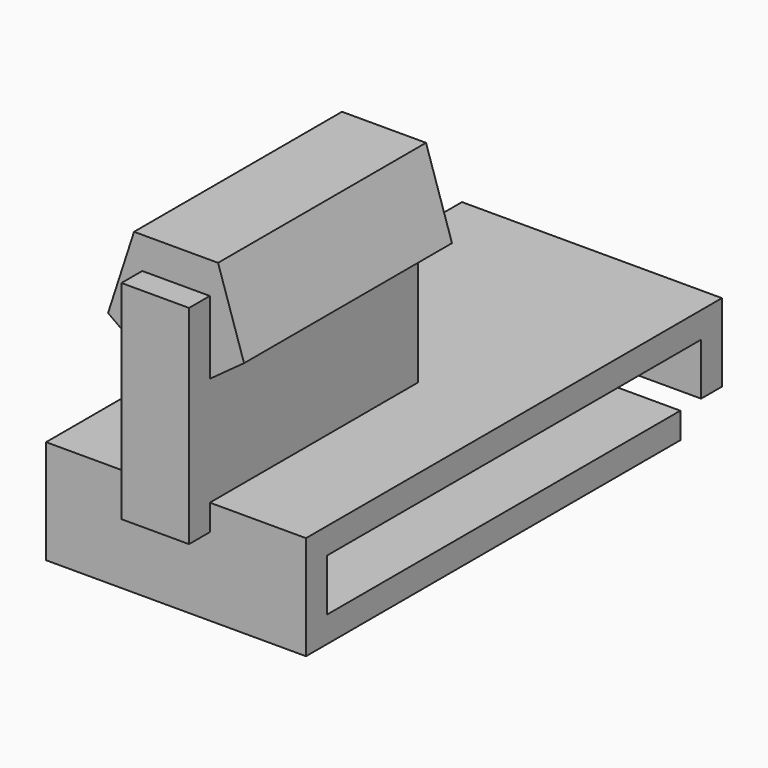
from build123d import *

# Parameters (mm, degrees)
BOX001_W                   = 10
BOX001_H                   = 20
BOX001_DEPTH               = 1
BOX004_W                   = 11
BOX004_H                   = 2.6
BOX004_DEPTH               = 8
EXTRUDE003_DEPTH           = 10
EXTRUDE003_PLACEMENT_ANGLE = 90
FUSION003_PLACEMENT_ANGLE  = 270
BOX003_W                   = 10
BOX003_H                   = 1
BOX003_DEPTH               = 4
BOX_W                      = 10
BOX_H                      = 18
BOX_DEPTH                  = 1
BOX002_W                   = 10
BOX002_H                   = 1
BOX002_DEPTH               = 2


with BuildPart() as cube001:
    # Box001 → Box001 (new body)
    with BuildSketch(Plane.XY.offset(3)):
        with Locations((5, 10)):
            Rectangle(BOX001_W, BOX001_H)
    extrude(amount=BOX001_DEPTH)


with BuildPart() as cube004:
    # Box004 → Box004 (new body)
    with BuildSketch(Plane(origin=(0, 5.7, -4), x_dir=(1, 0, 0), z_dir=(0, 0, 1))):
        with Locations((5.5, 1.3)):
            Rectangle(BOX004_W, BOX004_H)
    extrude(amount=BOX004_DEPTH)


with BuildPart() as keymaster:
    # RegularPolygon003 → Extrude003 (new body)
    with BuildSketch(Plane(origin=(-2.737398, 7, 0), x_dir=(0, 1, 0), z_dir=(0, 0, 1))):
        Polygon((0, -2.487398), (2.615405, -0.587195), (1.616409, 2.487398), (-1.616409, 2.487398), (-2.615405, -0.587195), align=None)
    extrude(amount=EXTRUDE003_DEPTH)


with BuildPart() as keymaster_1:
    # Extrude003 placement: moved
    add(keymaster.part.rotate(Axis((0, 0, 0), (0, 1, 0)), EXTRUDE003_PLACEMENT_ANGLE))

    # Fusion003: union Cube004
    add(cube004.part)


with BuildPart() as keymaster_2:
    # Fusion003 placement: moved
    add(keymaster_1.part.moved(Location((-2, 10, 7))).rotate(Axis((-2, 10, 7), (0, 0, 1)), FUSION003_PLACEMENT_ANGLE))


with BuildPart() as cube003:
    # Box003 → Box003 (new body)
    with BuildSketch(Plane.XY):
        with Locations((5, 0.5)):
            Rectangle(BOX003_W, BOX003_H)
    extrude(amount=BOX003_DEPTH)


with BuildPart() as cube:
    # Box → Box (new body)
    with BuildSketch(Plane.XY):
        with Locations((5, 9)):
            Rectangle(BOX_W, BOX_H)
    extrude(amount=BOX_DEPTH)


with BuildPart() as fusion:
    # Box002 → Box002 (new body)
    with BuildSketch(Plane(origin=(0, 19, 1), x_dir=(1, 0, 0), z_dir=(0, 0, 1))):
        with Locations((5, 0.5)):
            Rectangle(BOX002_W, BOX002_H)
    extrude(amount=BOX002_DEPTH)

    # Fusion: union Cube001, keymaster, Cube003, Cube
    add(cube001.part)
    add(keymaster_2.part)
    add(cube003.part)
    add(cube.part)


solid = fusion.part
